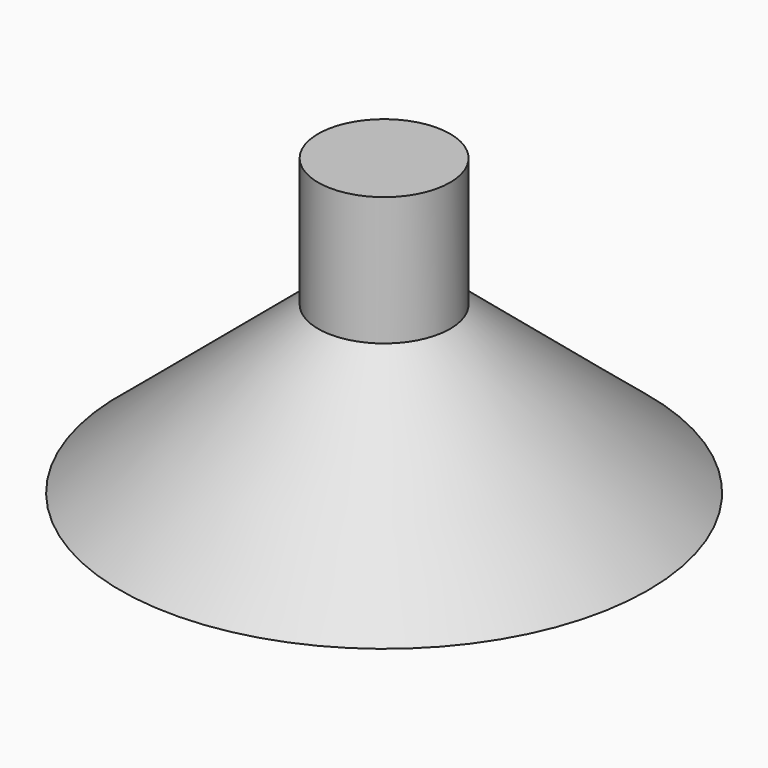
from build123d import *

# Parameters (mm, degrees)
F2_R      = 12.5
F0_R      = 50
F5_R      = 12.5
F4_FACE_R = 12.5


with BuildPart() as f4:
    # F2 (on offset) → F4 section 0
    with BuildSketch(Plane.XY.offset(31.4)):
        Circle(F2_R)
    # F0 (on Top) → F4 section 1
    with BuildSketch(Plane.XY):
        Circle(F0_R)
    loft()

    # F5 (on offset) → F6 section 0
    with BuildSketch(Plane.XY.offset(55.8)):
        Circle(F5_R)
    # F4_face (on face) → F6 section 1
    with BuildSketch(Plane.XY.offset(31.4)):
        Circle(F4_FACE_R)
    loft()


solid = f4.part
